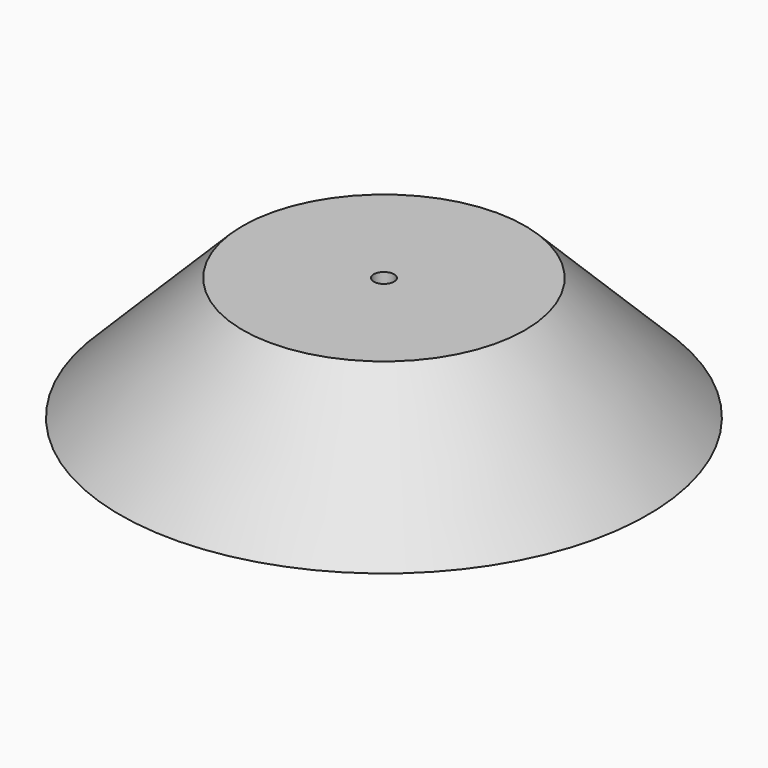
from build123d import *

# Parameters (mm, degrees)
F3_D = 3.3


with BuildPart() as f1:
    # F0 (on Front) → F1 (revolve)
    with BuildSketch(Plane.XZ):
        Polygon((0, 10), (-23, 10), (-43, -10), (0, -10), align=None)
        Polygon((-33.3431457505, -6), (-21.3431457505, 6), (-4, 6), (-4, -6), align=None, mode=Mode.SUBTRACT)
    revolve(axis=Axis((0, 0, 0), (0, 0, -1)))

    # F3 (through all)
    with Locations(Plane.XY.offset(10)):
        with Locations((0, 0)):
            Hole(F3_D / 2)


solid = f1.part
